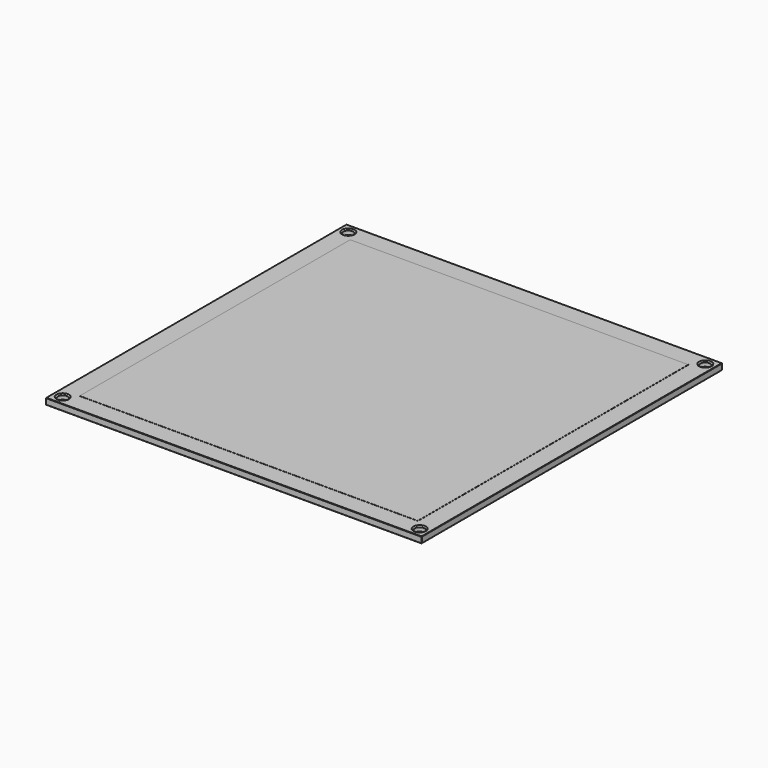
from build123d import *

# Parameters (mm, degrees)
F0_W     = 300
F0_H     = 300
F1_DEPTH = 5
F2_SIZE  = 0.25
F3_W     = 270
F3_H     = 270
F4_DEPTH = 0.1
F5_R     = 4
F6_DEPTH = 25
F7_SIZE  = 1


with BuildPart() as f1:
    # F0 (on Top) → F1 (new body)
    with BuildSketch(Plane.XY):
        Rectangle(F0_W, F0_H)
    extrude(amount=F1_DEPTH)

    # F2
    f2_edges = [f1.edges().sort_by_distance(p)[0] for p in [
        (0, -150, 5),
        (150, 0, 5),
        (0, 150, 5),
        (-150, 0, 5),
        (0, -150, 0),
        (150, 0, 0),
        (0, 150, 0),
        (-150, 0, 0),
        (-150, -150, 2.5),
        (150, -150, 2.5),
        (150, 150, 2.5),
        (-150, 150, 2.5),
    ]]
    chamfer(f2_edges, length=F2_SIZE)

    # F5 (on face) → F6 (cut)
    with BuildSketch(Plane.XY.offset(5)):
        with Locations((-142.5, 142.5)):
            Circle(F5_R)
        with Locations((142.5, 142.5)):
            Circle(F5_R)
        with Locations((142.5, -142.5)):
            Circle(F5_R)
        with Locations((-142.5, -142.5)):
            Circle(F5_R)
    extrude(amount=-F6_DEPTH, mode=Mode.SUBTRACT)

    # F7
    f7_edges = [f1.edges().sort_by_distance(p)[0] for p in [
        (-146.5, 142.5, 5),
        (-138.5, 142.5, 2.5),
        (-146.5, 142.5, 0),
        (-146.5, -142.5, 5),
        (-138.5, -142.5, 2.5),
        (-146.5, -142.5, 0),
        (138.5, -142.5, 5),
        (146.5, -142.5, 2.5),
        (138.5, -142.5, 0),
        (138.5, 142.5, 5),
        (146.5, 142.5, 2.5),
        (138.5, 142.5, 0),
    ]]
    chamfer(f7_edges, length=F7_SIZE)


with BuildPart() as f4:
    # F3 (on face) → F4 (new body)
    with BuildSketch(Plane.XY.offset(5)):
        Rectangle(F3_W, F3_H)
    extrude(amount=F4_DEPTH)


solid = Compound([f1.part, f4.part])
